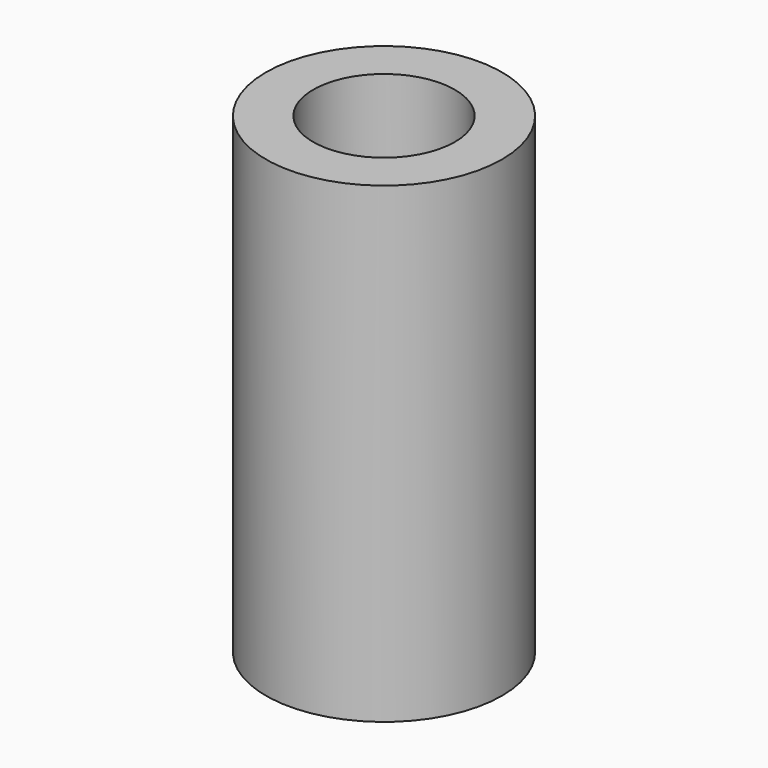
from build123d import *

# Parameters (mm, degrees)
F0_R     = 5
F1_DEPTH = 20
F2_R     = 3
F3_DEPTH = 10
F4_DEPTH = 10


with BuildPart() as f1:
    # F0 (on Top) → F1 (new body)
    with BuildSketch(Plane.XY):
        Circle(F0_R)
    extrude(amount=F1_DEPTH)

    # F2 (on face) → F3 (cut)
    with BuildSketch(Plane.XY.offset(20)):
        Circle(F2_R)
    extrude(amount=F3_DEPTH, mode=Mode.SUBTRACT)

    # F2 (on face) → F4 (cut)
    with BuildSketch(Plane.XY.offset(20)):
        Circle(F2_R)
    extrude(amount=-F4_DEPTH, mode=Mode.SUBTRACT)


solid = f1.part
